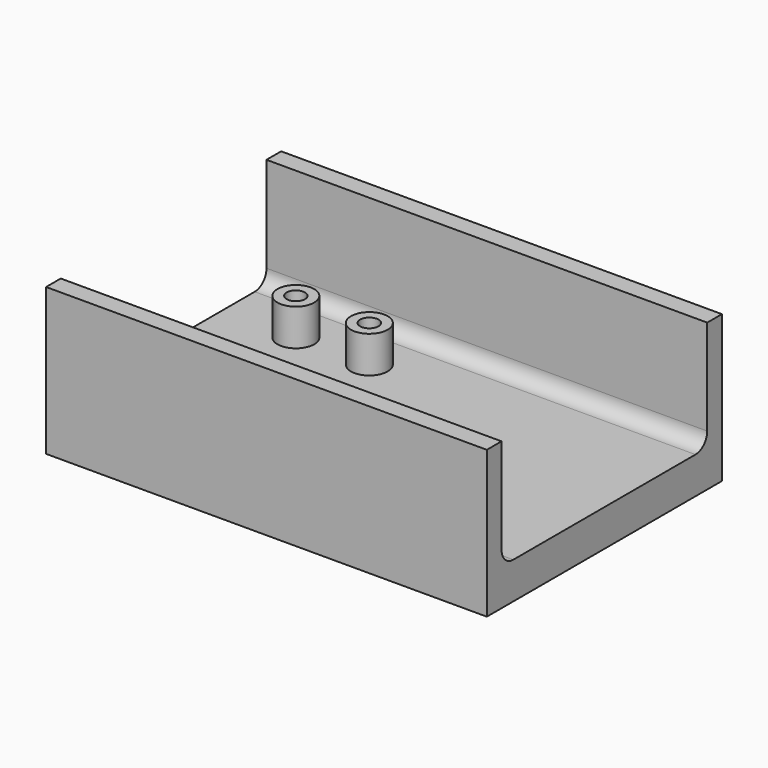
from build123d import *

# Parameters (mm, degrees)
F0_R     = 3.175
F0_R_2   = 1.5875
F1_DEPTH = 12.7
F0_W     = 76.2
F0_H     = 44.45
F0_W_2   = 6.35
F0_H_2   = 1.11579
F2_DEPTH = 6.35
F0_H_3   = 3.175
F3_DEPTH = 25.4
F4_R     = 2.54


with BuildPart() as f1:
    # F0 (on Top) → F1 (new body)
    with BuildSketch(Plane.XY):
        with Locations((12.7, 38.1)):
            Circle(F0_R)
        with Locations((12.7, 38.1)):
            Circle(F0_R_2, mode=Mode.SUBTRACT)
        with Locations((12.7, 12.7)):
            Circle(F0_R)
        with Locations((12.7, 12.7)):
            Circle(F0_R_2, mode=Mode.SUBTRACT)
        with Locations((25.4, 38.1)):
            Circle(F0_R)
        with Locations((25.4, 38.1)):
            Circle(F0_R_2, mode=Mode.SUBTRACT)
        with Locations((25.4, 12.7)):
            Circle(F0_R)
        with Locations((25.4, 12.7)):
            Circle(F0_R_2, mode=Mode.SUBTRACT)
    extrude(amount=F1_DEPTH)


with BuildPart() as f2:
    # F0 (on Top) → F2 (new body)
    with BuildSketch(Plane.XY):
        with Locations((38.1, 25.4)):
            Rectangle(F0_W, F0_H)
        with Locations((12.7, 12.7)):
            Circle(F0_R, mode=Mode.SUBTRACT)
        with Locations((25.4, 12.7)):
            Circle(F0_R, mode=Mode.SUBTRACT)
        with Locations((41.275, 17.285521)):
            Rectangle(F0_W_2, F0_H_2, mode=Mode.SUBTRACT)
        with Locations((41.275, 24.751311)):
            Rectangle(F0_W_2, F0_H_2, mode=Mode.SUBTRACT)
        with Locations((12.7, 38.1)):
            Circle(F0_R, mode=Mode.SUBTRACT)
        with Locations((25.4, 38.1)):
            Circle(F0_R, mode=Mode.SUBTRACT)
    extrude(amount=F2_DEPTH)

    # F0 (on Top) → F3 (join)
    with BuildSketch(Plane.XY):
        with Locations((38.1, 49.2125)):
            Rectangle(F0_W, F0_H_3)
        with Locations((38.1, 1.5875)):
            Rectangle(F0_W, F0_H_3)
    extrude(amount=F3_DEPTH)

    # F4
    f4_edges = [f2.edges().sort_by_distance(p)[0] for p in [
        (38.1, 47.625, 6.35),
        (38.1, 3.175, 6.35),
    ]]
    fillet(f4_edges, radius=F4_R)


solid = Compound([f1.part, f2.part])
